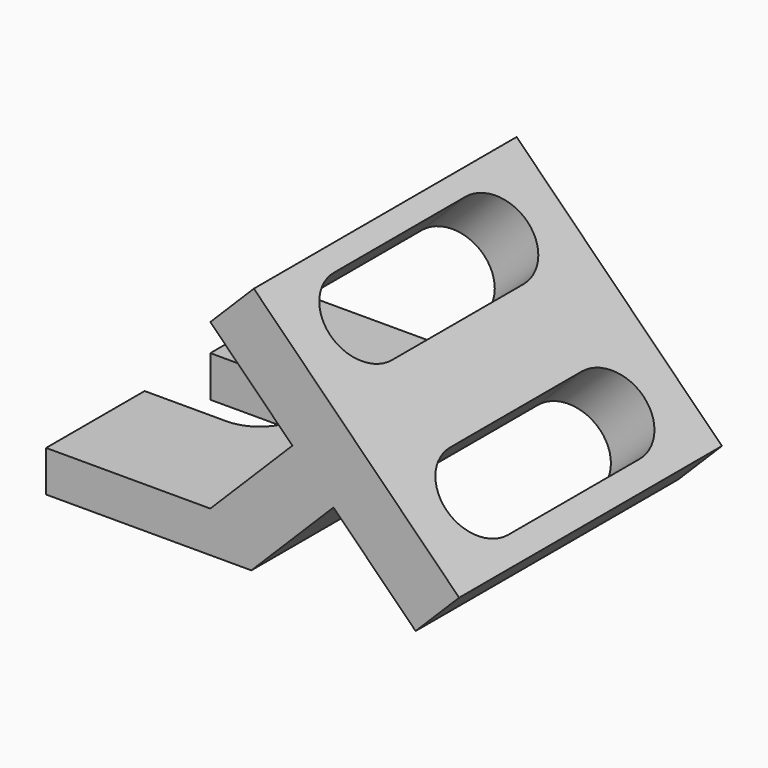
from build123d import *

# Parameters (mm, degrees)
F1_DEPTH = 101.6
F3_DEPTH = 78.232
F5_DEPTH = 32.512


with BuildPart() as f1:
    # F0 (on Front) → F1 (new body, symmetric)
    with BuildSketch(Plane.XZ):
        Polygon((0, 25.4), (0, 0), (127, 0), (177.8, 50.8), (228.6, 0), (255.540768, 26.940768), (204.740768, 77.740768), (179.340768, 103.140768), (128.540768, 153.940768), (101.6, 127), (152.4, 76.2), (101.6, 25.4), align=None)
    extrude(amount=F1_DEPTH, both=True)

    # F2 (on face) → F3 (cut)
    with BuildSketch(Plane(origin=(141.240768, 0, 141.240768), x_dir=(0.707107, 0, -0.707107), z_dir=(0.707107, 0, 0.707107))):
        with BuildLine():
            Line((-5.260512, 50.8), (-5.260512, -50.8))
            ThreePointArc((-5.260512, -50.8), (20.139488, -76.2), (45.539488, -50.8))
            Line((45.539488, -50.8), (45.539488, 50.8))
            ThreePointArc((45.539488, 50.8), (20.139488, 76.2), (-5.260512, 50.8))
        make_face()
        with BuildLine():
            Line((96.339488, 50.8), (96.339488, -50.8))
            ThreePointArc((96.339488, -50.8), (121.610302, -76.199671), (147.138174, -51.058367))
            Line((147.138174, -51.058367), (147.138174, -50.541633))
            Line((147.138174, -50.541633), (147.138174, 50.541633))
            ThreePointArc((147.138174, 50.541633), (121.868673, 76.199671), (96.339488, 50.8))
        make_face()
    extrude(amount=-F3_DEPTH, mode=Mode.SUBTRACT)

    # F4 (on face) → F5 (cut)
    with BuildSketch(Plane.XY.offset(25.4)):
        with BuildLine():
            Line((50.8, 25.4), (0, 25.4))
            Line((0, 25.4), (0, -25.4))
            Line((0, -25.4), (50.8, -25.4))
            ThreePointArc((50.8, -25.4), (76.2, 0), (50.8, 25.4))
        make_face()
    extrude(amount=-F5_DEPTH, mode=Mode.SUBTRACT)


solid = f1.part
